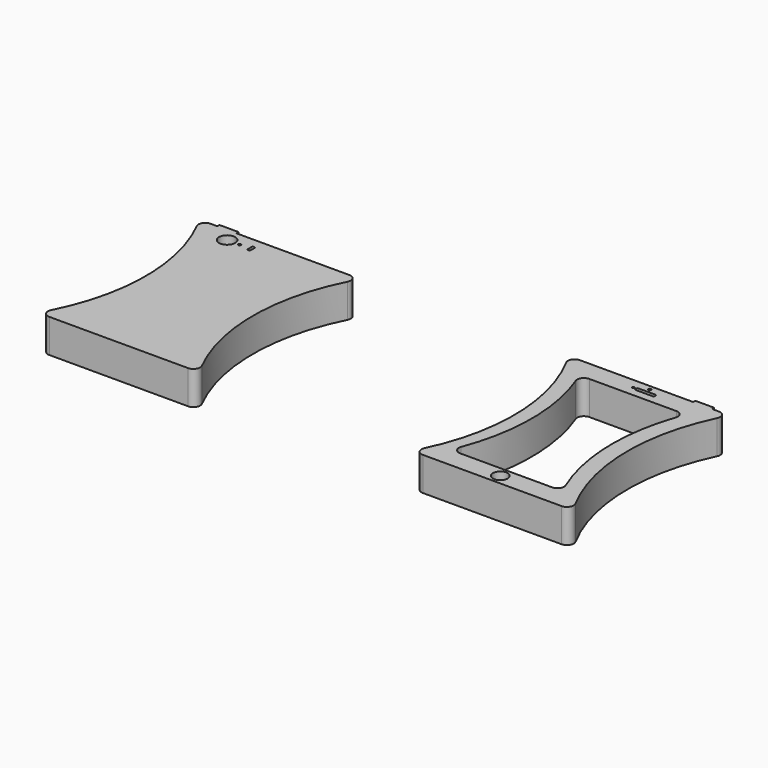
from build123d import *

# Parameters (mm, degrees)
F0_W     = 14
F0_H     = 2
F0_R     = 6
F0_R_2   = 1
F0_R_3   = 5.5
F0_R_4   = 0.75
F1_DEPTH = 25


with BuildPart() as f1:
    # F0 (on Top) → F1 (new body)
    with BuildSketch(Plane.XY):
        with Locations((34.06647, 69.976528)):
            Rectangle(F0_W, F0_H)
        with Locations((-319.928491, 69.976528)):
            Rectangle(F0_W, F0_H)
        with BuildLine():
            ThreePointArc((-336.389561, -73.765408), (-336.188205, -78.641647), (-331.928491, -81.023472))
            Line((-331.928491, -81.023472), (-228.707204, -81.023472))
            ThreePointArc((-228.707204, -81.023472), (-224.44749, -78.641647), (-224.246134, -73.765408))
            ThreePointArc((-224.246134, -73.765408), (-240.414037, -6.023472), (-224.246134, 61.718463))
            ThreePointArc((-224.246134, 61.718463), (-224.44749, 66.594703), (-228.707204, 68.976528))
            Line((-228.707204, 68.976528), (-312.928491, 68.976528))
            Line((-312.928491, 68.976528), (-326.928491, 68.976528))
            Line((-326.928491, 68.976528), (-331.928491, 68.976528))
            ThreePointArc((-331.928491, 68.976528), (-336.188205, 66.594703), (-336.389561, 61.718463))
            ThreePointArc((-336.389561, 61.718463), (-320.221658, -6.023472), (-336.389561, -73.765408))
        make_face()
        with Locations((-311.6602, 58.976528)):
            Circle(F0_R, mode=Mode.SUBTRACT)
        with Locations((-302.370442, 58.976528)):
            Circle(F0_R_2, mode=Mode.SUBTRACT)
        with BuildLine():
            Line((-295.106679, 57.657253), (-295.106679, 60.976528))
            ThreePointArc((-295.106679, 60.976528), (-294.813786, 61.683635), (-294.106679, 61.976528))
            Line((-294.106679, 61.976528), (-293.905659, 61.976528))
            ThreePointArc((-293.905659, 61.976528), (-293.198552, 61.683635), (-292.905659, 60.976528))
            Line((-292.905659, 60.976528), (-292.905659, 57.657253))
            ThreePointArc((-292.905659, 57.657253), (-293.198552, 56.950146), (-293.905659, 56.657253))
            Line((-293.905659, 56.657253), (-294.106679, 56.657253))
            ThreePointArc((-294.106679, 56.657253), (-294.813786, 56.950146), (-295.106679, 57.657253))
        make_face(mode=Mode.SUBTRACT)
        with BuildLine():
            ThreePointArc((-61.552736, 61.618786), (-43.86622, -5.761683), (-58.524562, -73.865085))
            ThreePointArc((-58.524562, -73.865085), (-58.244785, -78.688811), (-54.014422, -81.023472))
            Line((-54.014422, -81.023472), (49.195583, -81.023472))
            ThreePointArc((49.195583, -81.023472), (53.484447, -78.593617), (53.604784, -73.66573))
            ThreePointArc((53.604784, -73.66573), (35.918268, -6.285262), (50.576611, 61.818141))
            ThreePointArc((50.576611, 61.818141), (50.296833, 66.641867), (46.06647, 68.976528))
            Line((46.06647, 68.976528), (41.06647, 68.976528))
            Line((41.06647, 68.976528), (27.06647, 68.976528))
            Line((27.06647, 68.976528), (-57.143535, 68.976528))
            ThreePointArc((-57.143535, 68.976528), (-61.432399, 66.546673), (-61.552736, 61.618786))
        make_face()
        with Locations((-2.423817, -73.523472)):
            Circle(F0_R_3, mode=Mode.SUBTRACT)
        with BuildLine():
            ThreePointArc((34.717199, -59.099835), (34.262467, -63.796721), (30.102048, -66.023472))
            Line((30.102048, -66.023472), (-38.206801, -66.023472))
            ThreePointArc((-38.206801, -66.023472), (-42.322075, -63.863281), (-42.881438, -59.249279))
            ThreePointArc((-42.881438, -59.249279), (-33.120568, -6.023472), (-42.881438, 47.202334))
            ThreePointArc((-42.881438, 47.202334), (-42.322075, 51.816337), (-38.206801, 53.976528))
            Line((-38.206801, 53.976528), (26.583406, 53.976528))
            ThreePointArc((26.583406, 53.976528), (30.653035, 51.881373), (31.312062, 47.351777))
            ThreePointArc((31.312062, 47.351777), (23.24842, -6.186427), (34.717199, -59.099835))
        make_face(mode=Mode.SUBTRACT)
        with BuildLine():
            ThreePointArc((-9.423817, 61.476528), (-9.130924, 62.183635), (-8.423817, 62.476528))
            Line((-8.423817, 62.476528), (4.13663, 62.476528))
            ThreePointArc((4.13663, 62.476528), (4.843737, 62.183635), (5.13663, 61.476528))
            Line((5.13663, 61.476528), (5.13663, 60.916081))
            ThreePointArc((5.13663, 60.916081), (4.843737, 60.208974), (4.13663, 59.916081))
            Line((4.13663, 59.916081), (-8.423817, 59.916081))
            ThreePointArc((-8.423817, 59.916081), (-9.130924, 60.208974), (-9.423817, 60.916081))
            Line((-9.423817, 60.916081), (-9.423817, 61.476528))
        make_face(mode=Mode.SUBTRACT)
        with Locations((-11.423817, 61.476528)):
            Circle(F0_R_4, mode=Mode.SUBTRACT)
        with Locations((-2.423817, 65.476528)):
            Circle(F0_R_2, mode=Mode.SUBTRACT)
    extrude(amount=F1_DEPTH)


solid = f1.part
